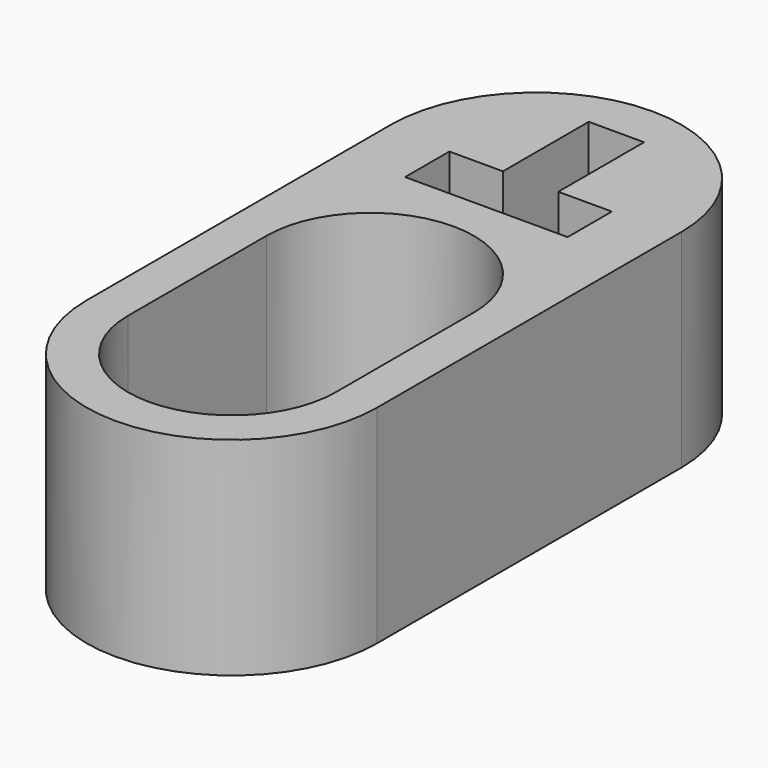
from build123d import *

# Parameters (mm, degrees)
PAD_DEPTH = 6


with BuildPart() as part:
    # Sketch → Pad (new body)
    with BuildSketch(Plane.XY):
        with BuildLine():
            ThreePointArc((-4.2, -10.8), (0, -15), (4.2, -10.8))
            Line((4.2, -10.8), (4.2, 0.2))
            ThreePointArc((4.2, 0.2), (0, 4.4), (-4.2, 0.2))
            Line((-4.2, 0.2), (-4.2, -10.8))
        make_face()
        Polygon((-2.35, 0), (-2.35, -1.6), (2.35, -1.6), (2.35, 0), (0.8, 0), (0.8, 3.1), (-0.8, 3.1), (-0.8, 0), align=None, mode=Mode.SUBTRACT)
        with BuildLine():
            ThreePointArc((3, -5.8), (0, -2.8), (-3, -5.8))
            Line((-3, -5.8), (-3, -10.8))
            ThreePointArc((-3, -10.8), (0, -13.8), (3, -10.8))
            Line((3, -10.8), (3, -5.8))
        make_face(mode=Mode.SUBTRACT)
    extrude(amount=PAD_DEPTH)


solid = part.part
